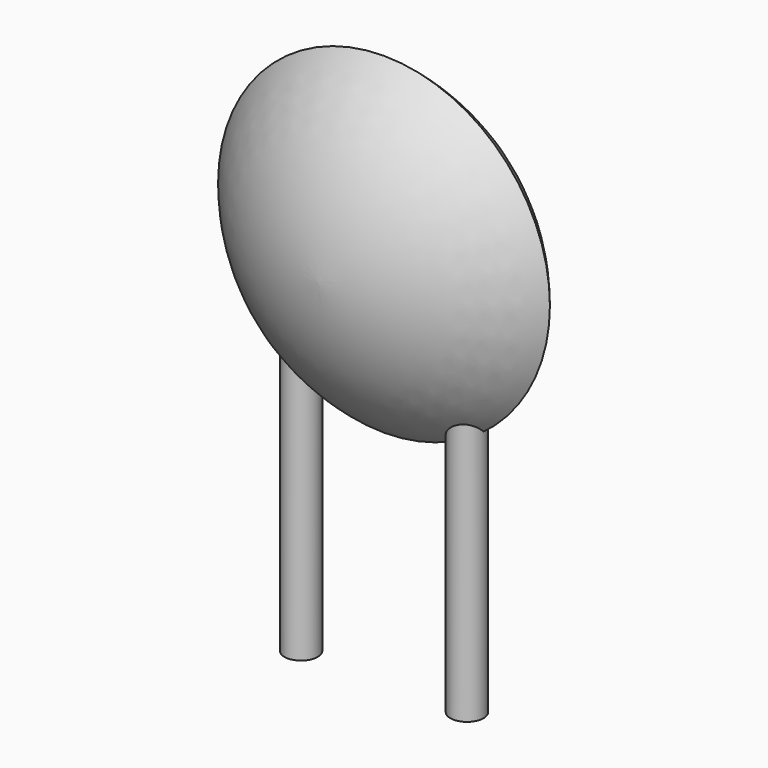
from build123d import *

# Parameters (mm, degrees)
SKETCH001_R       = 0.25
PAD001_DEPTH      = 1
PAD001_DEPTH_BACK = 3.2
SKETCH002_R       = 0.25
SKETCH003_R       = 0.25
SKETCH004_R       = 0.25
SKETCH005_R       = 0.25


with BuildPart() as pad001:
    # Sketch001 → Pad001 (new body, two sides)
    with BuildSketch(Plane.XY) as pad001_sk:
        Circle(SKETCH001_R)
        with Locations((2.5, 0)):
            Circle(SKETCH001_R)
    extrude(amount=PAD001_DEPTH)
    extrude(pad001_sk.sketch, amount=-PAD001_DEPTH_BACK)


with BuildPart() as revolution:
    # Sketch → Revolution (revolve)
    with BuildSketch(Plane.YZ.offset(1.25)):
        with BuildLine():
            Line((-1.25, 2.6), (1.25, 2.6))
            ThreePointArc((0, 0.1), (0.900315, 1.212342), (1.25, 2.6))
            ThreePointArc((-1.25, 2.6), (-0.900315, 1.212342), (0, 0.1))
        make_face()
    revolve(axis=Axis((1.25, -3.32079, 2.6), (0, 1, 0)))


with BuildPart() as loft_body:
    # Sketch002 → Loft section 0
    with BuildSketch(Plane.XY.offset(2.5)):
        with Locations((-0.75, 0)):
            Circle(SKETCH002_R)
    # Sketch003 → Loft section 1
    with BuildSketch(Plane.XY.offset(1)):
        Circle(SKETCH003_R)
    loft()


with BuildPart() as loft001:
    # Sketch004 → Loft001 section 0
    with BuildSketch(Plane.XY.offset(1)):
        with Locations((2.5, 0)):
            Circle(SKETCH004_R)
    # Sketch005 → Loft001 section 1
    with BuildSketch(Plane.XY.offset(2.5)):
        with Locations((3.25, 0)):
            Circle(SKETCH005_R)
    loft()


solid = Compound([pad001.part, revolution.part, loft_body.part, loft001.part])
